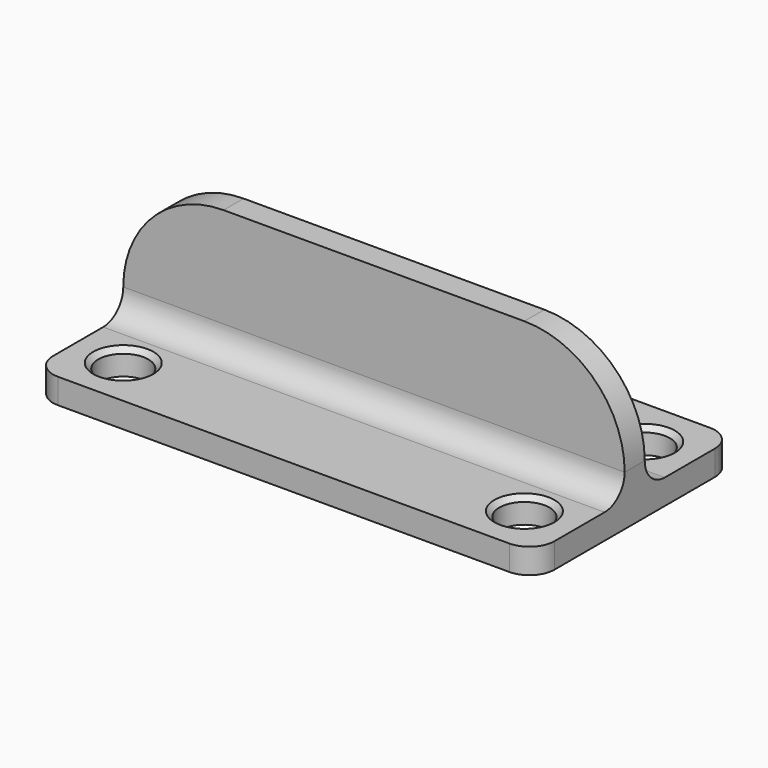
from build123d import *

# Parameters (mm, degrees)
SKETCH_R     = 5
PAD_DEPTH    = 5
PAD001_DEPTH = 2.5
FILLET_R     = 5
CHAMFER_SIZE = 1


with BuildPart() as part:
    # Sketch → Pad (new body)
    with BuildSketch(Plane.XY):
        with BuildLine():
            Line((-50, 20), (-50, -20))
            ThreePointArc((-50, -20), (-48.535534, -23.535534), (-45, -25))
            Line((-45, -25), (45, -25))
            ThreePointArc((45, -25), (48.535534, -23.535534), (50, -20))
            Line((50, -20), (50, 20))
            ThreePointArc((50, 20), (48.535534, 23.535534), (45, 25))
            Line((45, 25), (-45, 25))
            ThreePointArc((-45, 25), (-48.535534, 23.535534), (-50, 20))
        make_face()
        with Locations((-40, 15)):
            Circle(SKETCH_R, mode=Mode.SUBTRACT)
        with Locations((40, 15)):
            Circle(SKETCH_R, mode=Mode.SUBTRACT)
        with Locations((40, -15)):
            Circle(SKETCH_R, mode=Mode.SUBTRACT)
        with Locations((-40, -15)):
            Circle(SKETCH_R, mode=Mode.SUBTRACT)
    extrude(amount=PAD_DEPTH)

    # Sketch001 → Pad001 (join, symmetric)
    with BuildSketch(Plane.XZ):
        with BuildLine():
            Line((-30, 30), (30, 30))
            ThreePointArc((50, 10), (44.142136, 24.142136), (30, 30))
            Line((50, 10), (50, 5))
            Line((50, 5), (-50, 5))
            Line((-50, 5), (-50, 10))
            ThreePointArc((-30, 30), (-44.142136, 24.142136), (-50, 10))
        make_face()
    extrude(amount=PAD001_DEPTH, both=True)

    # Fillet
    fillet_edges = [part.edges().sort_by_distance(p)[0] for p in [
        (0, -2.5, 5),
        (0, 2.5, 5),
    ]]
    fillet(fillet_edges, radius=FILLET_R)

    # Chamfer
    chamfer_edges = [part.edges().sort_by_distance(p)[0] for p in [
        (35, -15, 5),
        (-45, -15, 5),
        (-45, 15, 5),
        (35, 15, 5),
    ]]
    chamfer(chamfer_edges, length=CHAMFER_SIZE)


solid = part.part
